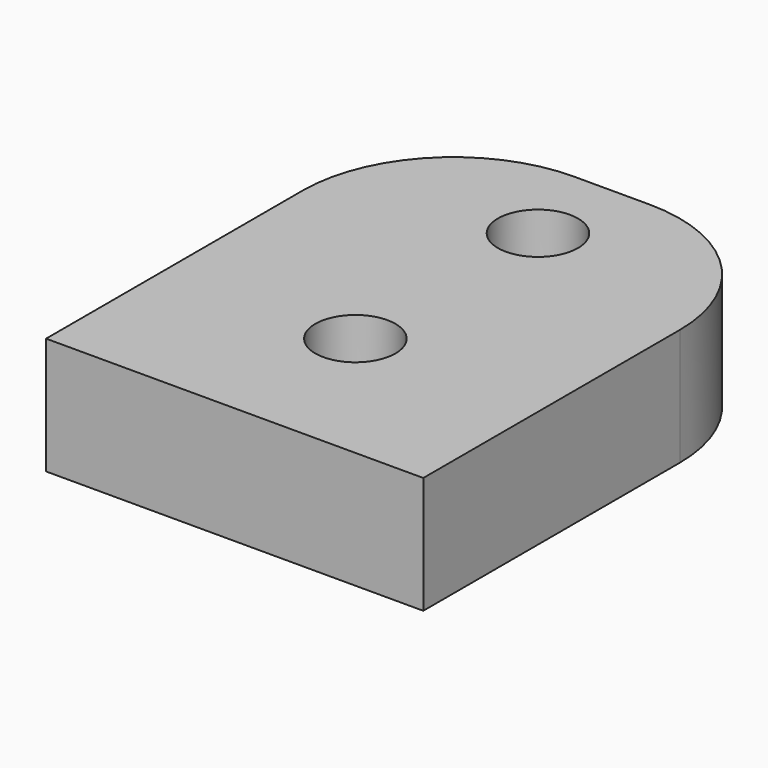
from build123d import *

# Parameters (mm, degrees)
F0_W     = 20
F0_H     = 25
F0_R     = 2.125
F1_DEPTH = 6.2
F2_R     = 8


with BuildPart() as f1:
    # F0 (on Top) → F1 (new body)
    with BuildSketch(Plane.XY):
        Rectangle(F0_W, F0_H)
        with Locations((0, -4.5)):
            Circle(F0_R, mode=Mode.SUBTRACT)
        with Locations((0, 7.6)):
            Circle(F0_R, mode=Mode.SUBTRACT)
    extrude(amount=F1_DEPTH)

    # F2
    f2_edges = [f1.edges().sort_by_distance(p)[0] for p in [
        (-10, 12.5, 3.1),
        (10, 12.5, 3.1),
    ]]
    fillet(f2_edges, radius=F2_R)


solid = f1.part
